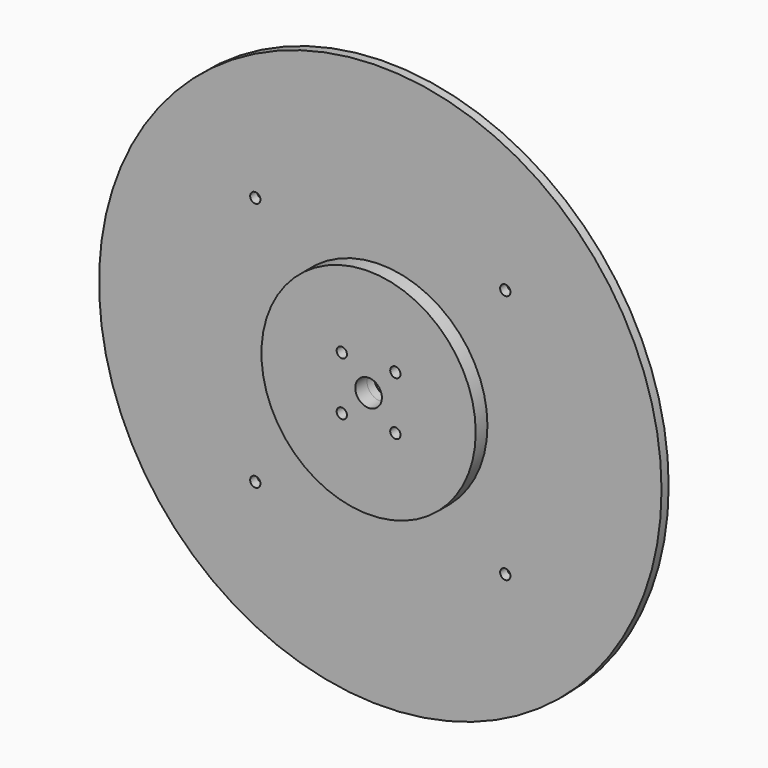
from build123d import *

# Parameters (mm, degrees)
F0_R     = 100.0125
F0_R_2   = 1.8288
F0_R_3   = 4.73075
F1_DEPTH = 3.175
F2_R     = 38.1
F2_R_2   = 1.8288
F2_R_3   = 4.73075
F3_DEPTH = 5.207


with BuildPart() as f1:
    # F0 (on Front) → F1 (new body)
    with BuildSketch(Plane.XZ):
        Circle(F0_R)
        with Locations((-44.45, -44.45)):
            Circle(F0_R_2, mode=Mode.SUBTRACT)
        Circle(F0_R_3, mode=Mode.SUBTRACT)
        with Locations((44.45, -44.45)):
            Circle(F0_R_2, mode=Mode.SUBTRACT)
        with Locations((-44.45, 44.45)):
            Circle(F0_R_2, mode=Mode.SUBTRACT)
        with Locations((44.45, 44.45)):
            Circle(F0_R_2, mode=Mode.SUBTRACT)
    extrude(amount=F1_DEPTH)


with BuildPart() as f3:
    # F2 (on face) → F3 (new body)
    with BuildSketch(Plane.XZ.offset(3.175)):
        Circle(F2_R)
        with Locations((-9.525, -9.525)):
            Circle(F2_R_2, mode=Mode.SUBTRACT)
        Circle(F2_R_3, mode=Mode.SUBTRACT)
        with Locations((9.525, -9.525)):
            Circle(F2_R_2, mode=Mode.SUBTRACT)
        with Locations((-9.525, 9.525)):
            Circle(F2_R_2, mode=Mode.SUBTRACT)
        with Locations((9.525, 9.525)):
            Circle(F2_R_2, mode=Mode.SUBTRACT)
    extrude(amount=F3_DEPTH)


solid = Compound([f1.part, f3.part])
